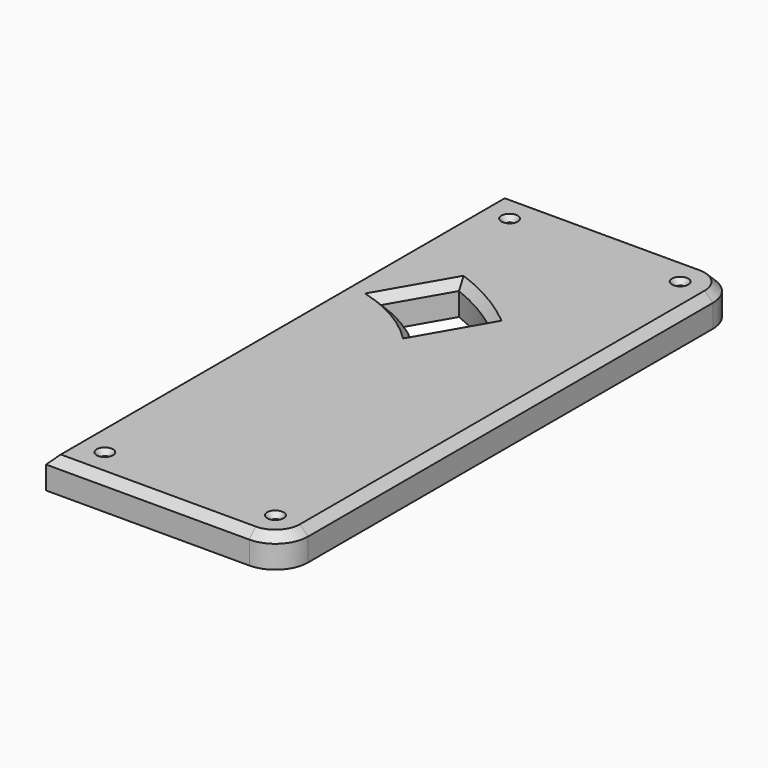
from build123d import *

# Parameters (mm, degrees)
SKETCH024_W     = 144.5
SKETCH024_H     = 350
PAD017_DEPTH    = 19
FILLET007_R     = 20
SKETCH025_R     = 2
POCKET015_DEPTH = 19.001
CHAMFER005_SIZE = 5
POCKET020_DEPTH = 19.001
CHAMFER006_SIZE = 5
CHAMFER007_SIZE = 3
SKETCH045_W     = 131
SKETCH045_H     = 20
POCKET029_DEPTH = 14


with BuildPart() as part:
    # Sketch024 → Pad017 (new body)
    with BuildSketch(Plane.XY):
        with Locations((307.25, 41.2)):
            Rectangle(SKETCH024_W, SKETCH024_H)
    extrude(amount=PAD017_DEPTH)

    # Fillet007
    fillet007_edges = [part.edges().sort_by_distance(p)[0] for p in [
        (379.5, 216.2, 9.5),
        (379.5, -133.8, 9.5),
    ]]
    fillet(fillet007_edges, radius=FILLET007_R)

    # Sketch025 (on Face5 of Fillet007) → Pocket015 (cut, through all)
    with BuildSketch(Plane.XY.offset(19)):
        with Locations((359.5, 196.2)):
            Circle(SKETCH025_R)
        with Locations((359.5, -113.8)):
            Circle(SKETCH025_R)
        with Locations((255, -113.8)):
            Circle(SKETCH025_R)
        with Locations((255, 196.2)):
            Circle(SKETCH025_R)
    extrude(amount=-POCKET015_DEPTH, mode=Mode.SUBTRACT)

    # Chamfer005
    chamfer005_edges = [part.edges().sort_by_distance(p)[0] for p in [
        (297.25, 216.2, 19),
        (235, 41.2, 19),
    ]]
    chamfer(chamfer005_edges, length=CHAMFER005_SIZE)

    # Sketch030 (on Face9 of Chamfer005) → Pocket020 (cut, through all)
    with BuildSketch(Plane.XY.offset(19)):
        with BuildLine():
            Line((256.961524, 95.358984), (276.961524, 130))
            ThreePointArc((311.60254, 110), (295, 121.243557), (276.961524, 130))
            Line((311.60254, 110), (291.60254, 75.358984))
            ThreePointArc((291.60254, 75.358984), (275.286367, 87.098543), (256.961524, 95.358984))
        make_face()
    extrude(amount=-POCKET020_DEPTH, mode=Mode.SUBTRACT)

    # Chamfer006
    chamfer006_edges = [part.edges().sort_by_distance(p)[0] for p in [
        (295, 121.243557, 19),
        (266.961524, 112.679492, 19),
        (275.286367, 87.098543, 19),
        (301.60254, 92.679492, 19),
    ]]
    chamfer(chamfer006_edges, length=CHAMFER006_SIZE)

    # Chamfer007
    chamfer007_edges = [part.edges().sort_by_distance(p)[0] for p in [
        (253, 196.2, 19),
        (357.5, 196.2, 19),
        (357.5, -113.8, 19),
        (253, -113.8, 19),
    ]]
    chamfer(chamfer007_edges, length=CHAMFER007_SIZE)

    # Sketch045 (on Face30 of Chamfer007) → Pocket029 (cut)
    with BuildSketch(Plane(origin=(0, 0, 0), x_dir=(1, 0, 0), z_dir=(0, 0, -1))):
        with Locations((300.5, 98.8)):
            Rectangle(SKETCH045_W, SKETCH045_H)
    extrude(amount=-POCKET029_DEPTH, mode=Mode.SUBTRACT)


with BuildPart() as part_1:
    # Body013 placement: moved
    add(part.part.moved(Location((0, 0, 10))))


with BuildPart() as part_2:
    # Clone placement: moved
    add(part_1.part.moved(Location((-235, 133.8, -29))))


solid = part_2.part
